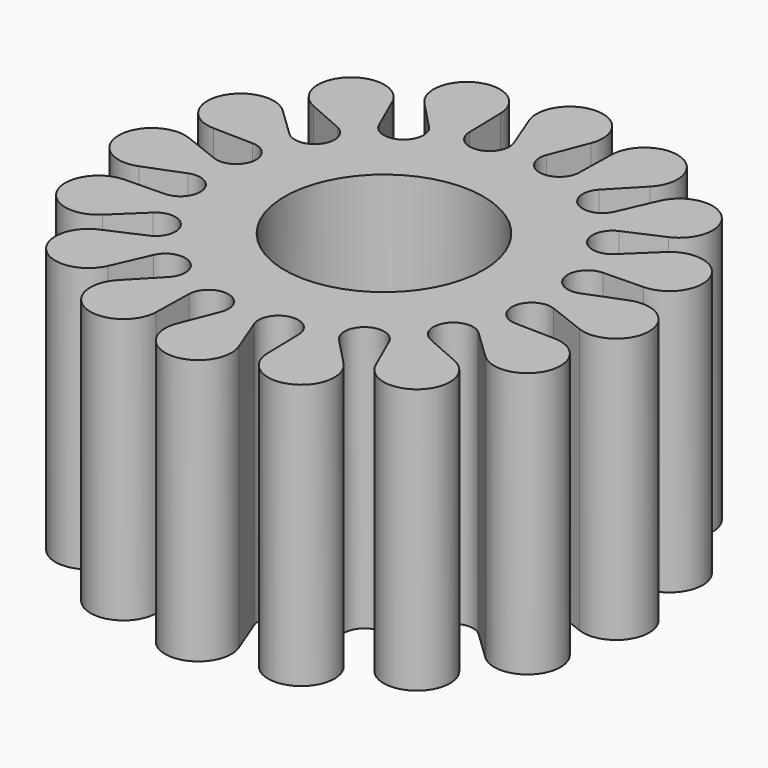
from build123d import *

# Parameters (mm, degrees)
F0_R     = 7.5
F1_DEPTH = 20


with BuildPart() as f1:
    # F0 (on Top) → F1 (new body)
    with BuildSketch(Plane.XY):
        with BuildLine():
            Line((-13.784993, 1.235994), (-16.59268, 2.329543))
            ThreePointArc((-16.59268, 2.329543), (-20, 0), (-16.59268, -2.329543))
            Line((-16.59268, -2.329543), (-13.784993, -1.235994))
            ThreePointArc((-13.784993, -1.235994), (-11.769423, -2.341084), (-13.208667, -4.133379))
            Line((-13.208667, -4.133379), (-16.221115, -4.197527))
            ThreePointArc((-16.221115, -4.197527), (-18.477591, -7.653669), (-14.43816, -8.501961))
            Line((-14.43816, -8.501961), (-12.262679, -6.417198))
            ThreePointArc((-12.262679, -6.417198), (-9.977635, -6.666843), (-10.621442, -8.873483))
            Line((-10.621442, -8.873483), (-13.380032, -10.085561))
            ThreePointArc((-13.380032, -10.085561), (-14.142136, -14.142136), (-10.085561, -13.380032))
            Line((-10.085561, -13.380032), (-8.873483, -10.621442))
            ThreePointArc((-8.873483, -10.621442), (-6.666843, -9.977635), (-6.417198, -12.262679))
            Line((-6.417198, -12.262679), (-8.501961, -14.43816))
            ThreePointArc((-8.501961, -14.43816), (-7.653669, -18.477591), (-4.197527, -16.221115))
            Line((-4.197527, -16.221115), (-4.133379, -13.208667))
            ThreePointArc((-4.133379, -13.208667), (-2.341084, -11.769423), (-1.235994, -13.784993))
            Line((-1.235994, -13.784993), (-2.329543, -16.59268))
            ThreePointArc((-2.329543, -16.59268), (0, -20), (2.329543, -16.59268))
            Line((2.329543, -16.59268), (1.235994, -13.784993))
            ThreePointArc((1.235994, -13.784993), (2.341084, -11.769423), (4.133379, -13.208667))
            Line((4.133379, -13.208667), (4.197527, -16.221115))
            ThreePointArc((4.197527, -16.221115), (7.653669, -18.477591), (8.501961, -14.43816))
            Line((8.501961, -14.43816), (6.417198, -12.262679))
            ThreePointArc((6.417198, -12.262679), (6.666843, -9.977635), (8.873483, -10.621442))
            Line((8.873483, -10.621442), (10.085561, -13.380032))
            ThreePointArc((10.085561, -13.380032), (14.142136, -14.142136), (13.380032, -10.085561))
            Line((13.380032, -10.085561), (10.621442, -8.873483))
            ThreePointArc((10.621442, -8.873483), (9.977635, -6.666843), (12.262679, -6.417198))
            Line((12.262679, -6.417198), (14.43816, -8.501961))
            ThreePointArc((14.43816, -8.501961), (18.477591, -7.653669), (16.221115, -4.197527))
            Line((16.221115, -4.197527), (13.208667, -4.133379))
            ThreePointArc((13.208667, -4.133379), (11.769423, -2.341084), (13.784993, -1.235994))
            Line((13.784993, -1.235994), (16.59268, -2.329543))
            ThreePointArc((16.59268, -2.329543), (20, 0), (16.59268, 2.329543))
            Line((16.59268, 2.329543), (13.784993, 1.235994))
            ThreePointArc((13.784993, 1.235994), (11.769423, 2.341084), (13.208667, 4.133379))
            Line((13.208667, 4.133379), (16.221115, 4.197527))
            ThreePointArc((16.221115, 4.197527), (18.477591, 7.653669), (14.43816, 8.501961))
            Line((14.43816, 8.501961), (12.262679, 6.417198))
            ThreePointArc((12.262679, 6.417198), (9.977635, 6.666843), (10.621442, 8.873483))
            Line((10.621442, 8.873483), (13.380032, 10.085561))
            ThreePointArc((13.380032, 10.085561), (14.142136, 14.142136), (10.085561, 13.380032))
            Line((10.085561, 13.380032), (8.873483, 10.621442))
            ThreePointArc((8.873483, 10.621442), (6.666843, 9.977635), (6.417198, 12.262679))
            Line((6.417198, 12.262679), (8.501961, 14.43816))
            ThreePointArc((8.501961, 14.43816), (7.653669, 18.477591), (4.197527, 16.221115))
            Line((4.197527, 16.221115), (4.133379, 13.208667))
            ThreePointArc((4.133379, 13.208667), (2.341084, 11.769423), (1.235994, 13.784993))
            Line((1.235994, 13.784993), (2.329543, 16.59268))
            ThreePointArc((2.329543, 16.59268), (0, 20), (-2.329543, 16.59268))
            Line((-2.329543, 16.59268), (-1.235994, 13.784993))
            ThreePointArc((-1.235994, 13.784993), (-2.341084, 11.769423), (-4.133379, 13.208667))
            Line((-4.133379, 13.208667), (-4.197527, 16.221115))
            ThreePointArc((-4.197527, 16.221115), (-7.653669, 18.477591), (-8.501961, 14.43816))
            Line((-8.501961, 14.43816), (-6.417198, 12.262679))
            ThreePointArc((-6.417198, 12.262679), (-6.666843, 9.977635), (-8.873483, 10.621442))
            Line((-8.873483, 10.621442), (-10.085561, 13.380032))
            ThreePointArc((-10.085561, 13.380032), (-14.142136, 14.142136), (-13.380032, 10.085561))
            Line((-13.380032, 10.085561), (-10.621442, 8.873483))
            ThreePointArc((-10.621442, 8.873483), (-9.977635, 6.666843), (-12.262679, 6.417198))
            Line((-12.262679, 6.417198), (-14.43816, 8.501961))
            ThreePointArc((-14.43816, 8.501961), (-18.477591, 7.653669), (-16.221115, 4.197527))
            Line((-16.221115, 4.197527), (-13.208667, 4.133379))
            ThreePointArc((-13.208667, 4.133379), (-11.769423, 2.341084), (-13.784993, 1.235994))
        make_face()
        Circle(F0_R, mode=Mode.SUBTRACT)
    extrude(amount=F1_DEPTH)


solid = f1.part
